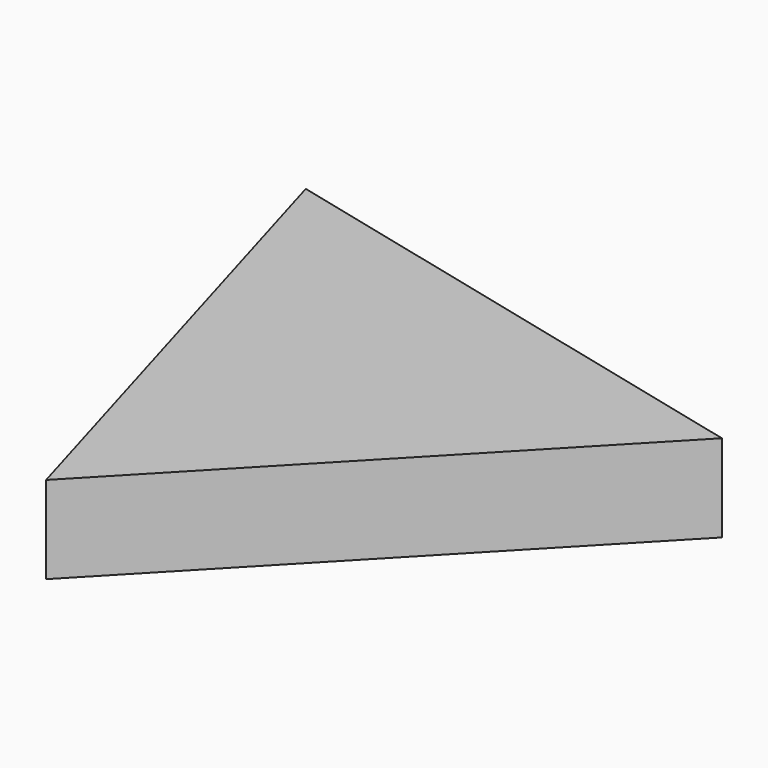
from build123d import *

# Parameters (mm, degrees)
F1_DEPTH = 25.4
F3_DEPTH = 1.27


with BuildPart() as f1:
    # F0 (on Top) → F1 (new body)
    with BuildSketch(Plane.XY):
        Polygon((85.821993, 25.052341), (-64.60696, 61.797855), (-21.215033, -86.850196), align=None)
    extrude(amount=F1_DEPTH)

    # F2 (on face) → F3 (cut)
    with BuildSketch(Plane.XY.offset(25.4)):
        Polygon((32.30348, -30.898928), (10.607516, 43.425098), (-42.910996, -12.52617), align=None)
    extrude(amount=F3_DEPTH, mode=Mode.SUBTRACT)


solid = f1.part
